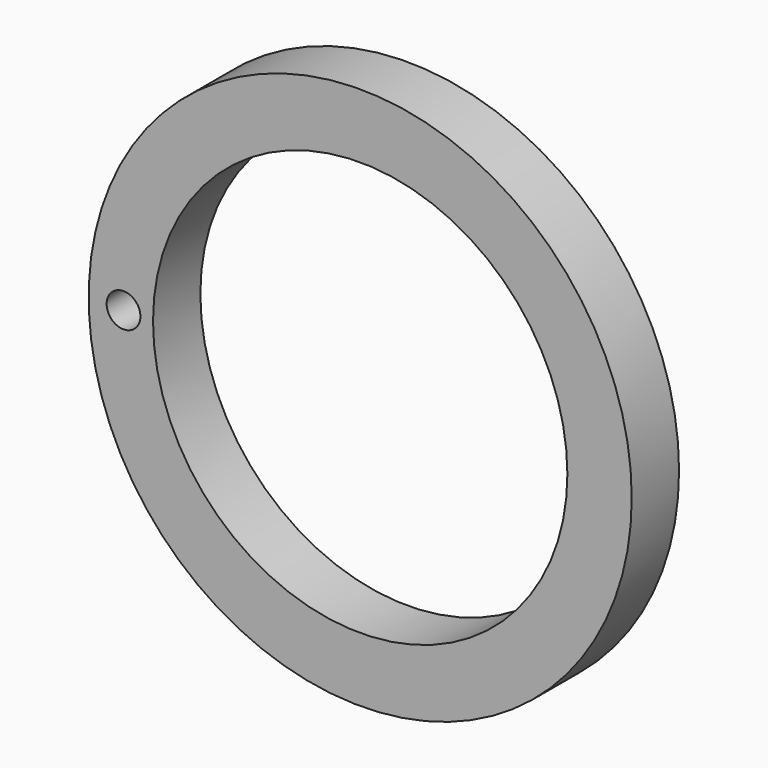
from build123d import *

# Parameters (mm, degrees)
F0_R     = 114.725039
F0_R_2   = 7.126806
F0_R_3   = 87.535454
F1_DEPTH = 25


with BuildPart() as f1:
    # F0 (on Front) → F1 (new body)
    with BuildSketch(Plane.XZ):
        Circle(F0_R)
        with Locations((-100, 0)):
            Circle(F0_R_2, mode=Mode.SUBTRACT)
        Circle(F0_R_3, mode=Mode.SUBTRACT)
    extrude(amount=F1_DEPTH)


solid = f1.part
